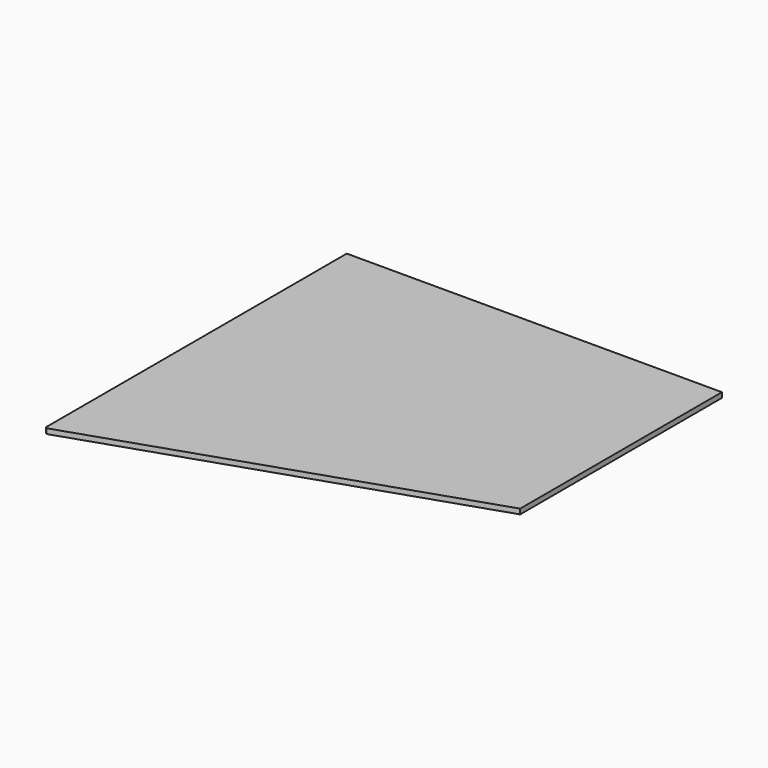
from build123d import *

# Parameters (mm, degrees)
F1_DEPTH = 12
F2_R     = 4


with BuildPart() as f1:
    # F0 (on Top) → F1 (new body)
    with BuildSketch(Plane.XY):
        Polygon((885, 0), (0, 0), (0, -890.758355), (885, -595), align=None)
    extrude(amount=F1_DEPTH)

    # F2
    f2_edges = [f1.edges().sort_by_distance(p)[0] for p in [
        (0, -890.758355, 6),
    ]]
    fillet(f2_edges, radius=F2_R)


solid = f1.part
